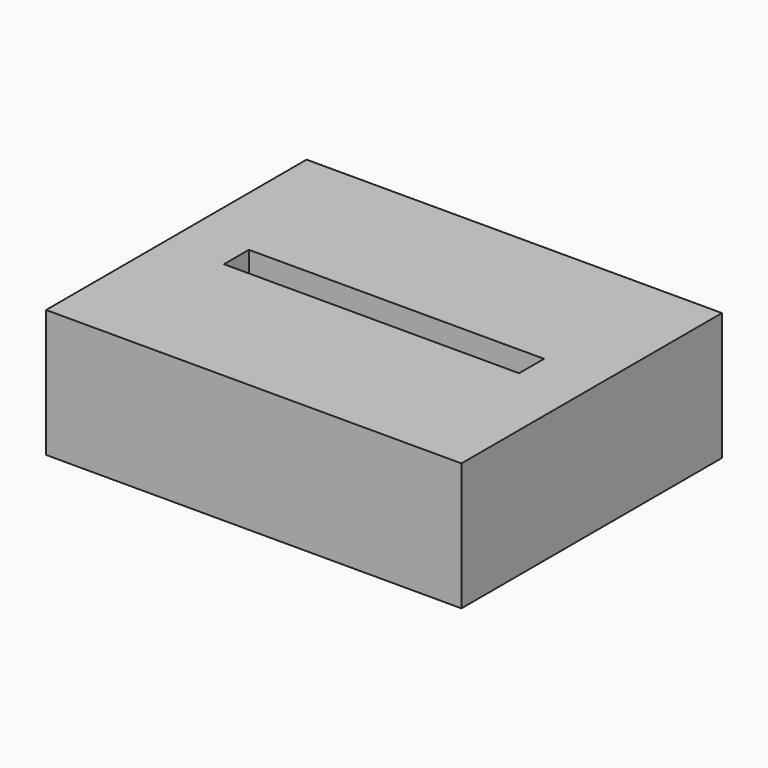
from build123d import *

# Parameters (mm, degrees)
F0_W     = 58.5797131062
F0_H     = 45.9196195006
F1_DEPTH = 9
F2_W     = 41.6287891567
F2_H     = 4.3998513578
F3_DEPTH = 8.5


with BuildPart() as f1:
    # F0 (on Top) → F1 (new body, symmetric)
    with BuildSketch(Plane.XY):
        Rectangle(F0_W, F0_H)
    extrude(amount=F1_DEPTH, both=True)

    # F2 (on face) → F3 (cut)
    with BuildSketch(Plane.XY.offset(9)):
        Rectangle(F2_W, F2_H)
    extrude(amount=-F3_DEPTH, mode=Mode.SUBTRACT)


solid = f1.part
